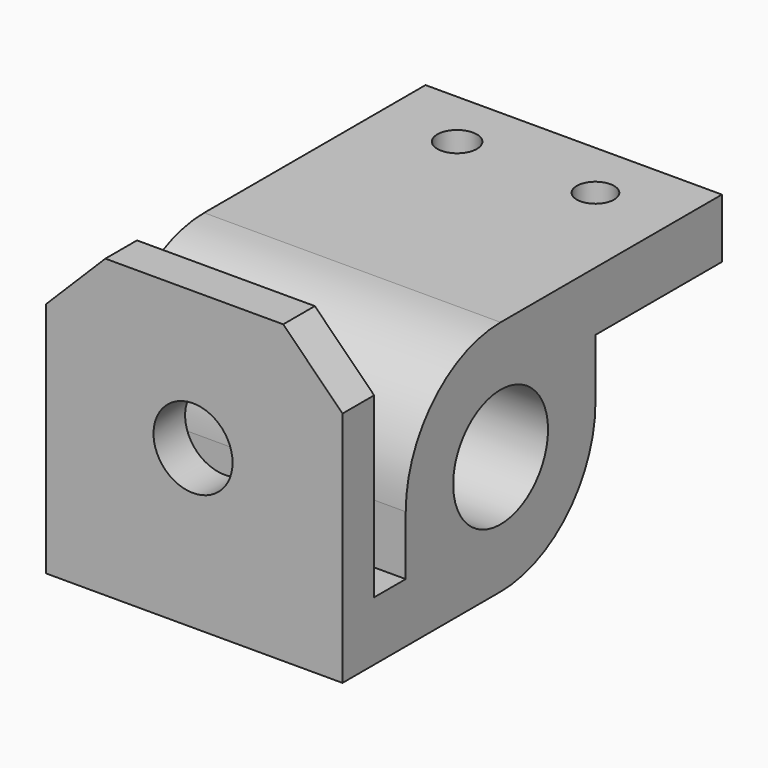
from build123d import *

# Parameters (mm, degrees)
F0_R     = 15
F1_DEPTH = 75
F2_SIZE  = 15
F3_SIZE  = 15
F4_R     = 10
F5_DEPTH = 15
F6_R     = 4.721078
F6_R_2   = 5
F7_DEPTH = 15


with BuildPart() as f1:
    # F0 (on Right) → F1 (new body)
    with BuildSketch(Plane.YZ):
        with BuildLine():
            Line((-50, -30), (0, -30))
            ThreePointArc((0, -30), (21.213203, -21.213203), (30, 0))
            Line((30, 0), (30, 15))
            Line((30, 15), (70, 15))
            Line((70, 15), (70, 30))
            Line((70, 30), (0, 30))
            ThreePointArc((0, 30), (-21.213203, 21.213203), (-30, 0))
            Line((-30, 0), (-30, -15))
            Line((-30, -15), (-40, -15))
            Line((-40, -15), (-40, 45))
            Line((-40, 45), (-50, 45))
            Line((-50, 45), (-50, 0))
            Line((-50, 0), (-50, -30))
        make_face()
        Circle(F0_R, mode=Mode.SUBTRACT)
    extrude(amount=F1_DEPTH)

    # F2
    f2_edges = [f1.edges().sort_by_distance(p)[0] for p in [
        (75, -45, 45),
    ]]
    chamfer(f2_edges, length=F2_SIZE)

    # F3
    f3_edges = [f1.edges().sort_by_distance(p)[0] for p in [
        (0, -45, 45),
    ]]
    chamfer(f3_edges, length=F3_SIZE)

    # F4 (on face) → F5 (cut)
    with BuildSketch(Plane.XZ.offset(50)):
        with Locations((37.181303, 10)):
            Circle(F4_R)
    extrude(amount=-F5_DEPTH, mode=Mode.SUBTRACT)

    # F6 (on face) → F7 (cut)
    with BuildSketch(Plane.XY.offset(30)):
        with Locations((55, 55)):
            Circle(F6_R)
        with Locations((20, 55)):
            Circle(F6_R_2)
    extrude(amount=-F7_DEPTH, mode=Mode.SUBTRACT)


solid = f1.part
